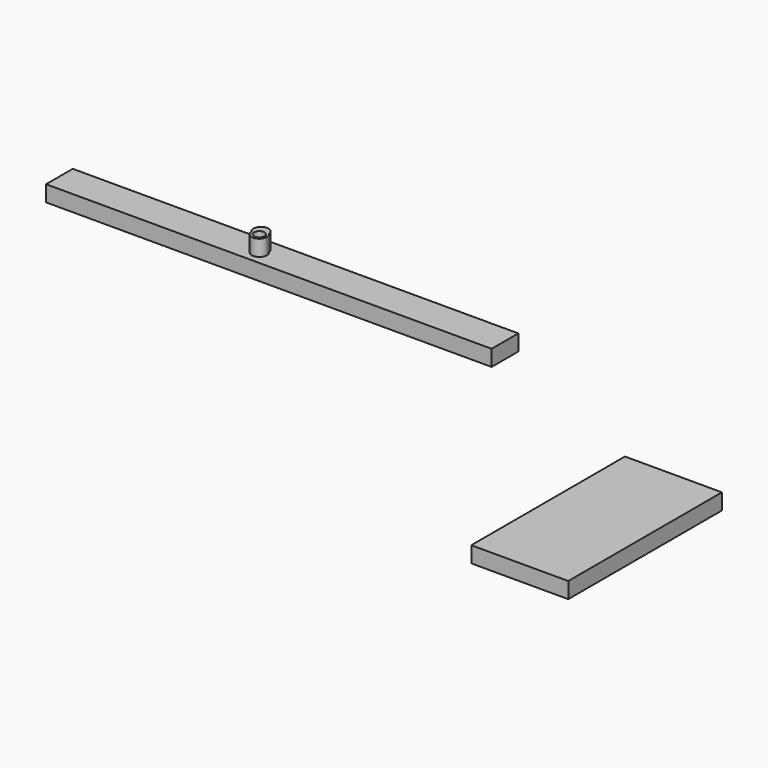
from build123d import *

# Parameters (mm, degrees)
F0_W     = 153.8493943154
F0_H     = 304.8
F1_DEPTH = 25.4
F0_W_2   = 706.9441376255
F0_H_2   = 52.9727586547
F3_DEPTH = 25.4
F4_DEPTH = 25.401


with BuildPart() as f1:
    # F0 (on Top) → F1 (new body)
    with BuildSketch(Plane.XY):
        with Locations((386.5399363272, 152.4)):
            Rectangle(F0_W, F0_H)
    extrude(amount=F1_DEPTH)


with BuildPart() as f1b:
    # F0 (on Top) → F1, piece 2 (new body)
    with BuildSketch(Plane.XY):
        with Locations((-353.4720688128, 453.7613283162)):
            Rectangle(F0_W_2, F0_H_2)
    extrude(amount=F1_DEPTH)

    # F2 (on face) → F3 (join)
    with BuildSketch(Plane.XY.offset(25.4)):
        with BuildLine():
            ThreePointArc((-398.2430654439, 448.8063495925), (-385.9175506779, 437.2312984411), (-374.0871281156, 449.3119120598))
            ThreePointArc((-374.0871281156, 449.3119120598), (-375.0028523933, 453.926163523), (-377.6112297338, 457.8410371057))
            ThreePointArc((-377.6112297338, 457.8410371057), (-377.5868901469, 457.4014250502), (-377.5787732731, 456.9612145424))
            ThreePointArc((-377.5787732731, 456.9612145424), (-377.7883318284, 454.7339144409), (-378.4096523512, 452.584788726))
            ThreePointArc((-378.4096523512, 452.584788726), (-377.9148878404, 450.9814800644), (-377.7477553681, 449.3119120598))
            ThreePointArc((-377.7477553681, 449.3119120598), (-384.3882488939, 441.0799796659), (-393.8388565209, 445.8283352427))
            ThreePointArc((-393.8388565209, 445.8283352427), (-396.2088026565, 447.0691200413), (-398.2430654439, 448.8063495925))
        make_face()
        with BuildLine():
            ThreePointArc((-377.5787732731, 456.9612145424), (-377.5868901469, 457.4014250502), (-377.6112297338, 457.8410371057))
            ThreePointArc((-377.6112297338, 457.8410371057), (-391.0173039622, 460.3804508209), (-398.2430654439, 448.8063495925))
            ThreePointArc((-398.2430654439, 448.8063495925), (-396.2088026565, 447.0691200413), (-393.8388565209, 445.8283352427))
            ThreePointArc((-393.8388565209, 445.8283352427), (-389.5489289884, 457.0272334378), (-378.4096523512, 452.584788726))
            ThreePointArc((-378.4096523512, 452.584788726), (-377.7883318284, 454.7339144409), (-377.5787732731, 456.9612145424))
        make_face()
        with BuildLine():
            ThreePointArc((-398.2430654439, 448.8063495925), (-391.0173039622, 460.3804508209), (-377.6112297338, 457.8410371057))
            ThreePointArc((-377.6112297338, 457.8410371057), (-394.3099707415, 467.899666061), (-398.2430654439, 448.8063495925))
        make_face()
    extrude(amount=F3_DEPTH)

    # F4 (cut, through all): a face of the model
    f4_faces = [f1b.faces().sort_by_distance(p)[0] for p in [
        (-386.1703872681, 449.3119120598, 25.4),
    ]]
    extrude(f4_faces, amount=-F4_DEPTH, mode=Mode.SUBTRACT)


solid = Compound([f1.part, f1b.part])
